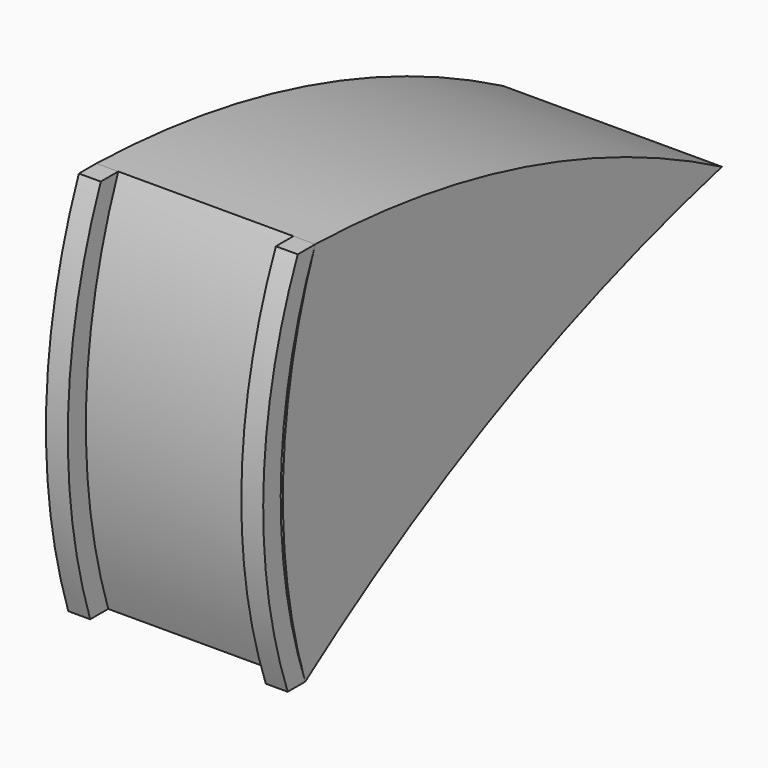
from build123d import *

# Parameters (mm, degrees)
F1_DEPTH = 25.4
F3_DEPTH = 2.54
F5_DEPTH = 2.54


with BuildPart() as f1:
    # F0 (on Right) → F1 (new body)
    with BuildSketch(Plane.YZ):
        with BuildLine():
            ThreePointArc((-16.644416, -24.966624), (12.277165, -8.144617), (43.801095, 3.066077))
            ThreePointArc((43.801095, 3.066077), (15.275229, 14.647333), (-15.184379, 19.126479))
            ThreePointArc((-15.184379, 19.126479), (-19.845197, -2.789914), (-16.644416, -24.966624))
        make_face()
    extrude(amount=F1_DEPTH)

    # F4 (on face) → F5 (join)
    with BuildSketch(Plane(origin=(0, 0, 0), x_dir=(0, -1, 0), z_dir=(-1, 0, 0))):
        with BuildLine():
            ThreePointArc((15.184379, 19.126479), (19.826138, -2.790545), (16.644416, -24.966624))
            Line((16.644416, -24.966624), (19.253846, -24.966624))
            ThreePointArc((19.253846, -24.966624), (22.461144, -2.782294), (17.724379, 19.126479))
            Line((17.724379, 19.126479), (15.184379, 19.126479))
        make_face()
    extrude(amount=-F5_DEPTH)


with BuildPart() as f3:
    # F2 (on face) → F3 (new body)
    with BuildSketch(Plane.YZ.offset(25.4)):
        with BuildLine():
            ThreePointArc((-16.644416, -24.966624), (-20.165023, -2.779323), (-15.184379, 19.126479))
            Line((-15.184379, 19.126479), (-17.724379, 19.126479))
            ThreePointArc((-17.724379, 19.126479), (-22.705023, -2.779323), (-19.184416, -24.966624))
            Line((-19.184416, -24.966624), (-16.644416, -24.966624))
        make_face()
    extrude(amount=-F3_DEPTH)


solid = Compound([f1.part, f3.part])
